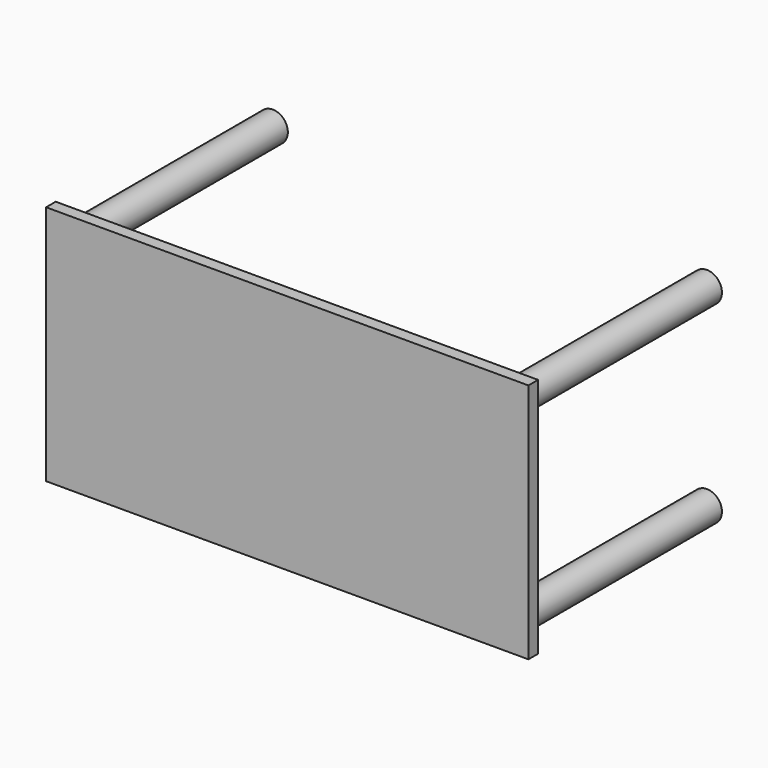
from build123d import *

# Parameters (mm, degrees)
F0_W     = 400
F0_H     = 200
F1_DEPTH = 10
F2_R     = 12.5
F3_DEPTH = 200
F4_R     = 12.5
F5_DEPTH = 200


with BuildPart() as f1:
    # F0 (on Front) → F1 (new body)
    with BuildSketch(Plane.XZ):
        with Locations((-15.897054, -26.061756)):
            Rectangle(F0_W, F0_H)
    extrude(amount=F1_DEPTH)

    # F2 (on Front) → F3 (join)
    with BuildSketch(Plane.XZ):
        with Locations((-195.897054, 53.938244)):
            Circle(F2_R)
    extrude(amount=-F3_DEPTH)

    # F4 (on face) → F5 (join)
    with BuildSketch(Plane(origin=(0, 0, 0), x_dir=(-1, 0, 0), z_dir=(0, 1, 0))):
        with Locations((-164.102946, 53.938244)):
            Circle(F4_R)
        with Locations((-164.102946, -106.061756)):
            Circle(F4_R)
        with Locations((195.897054, -106.061756)):
            Circle(F4_R)
    extrude(amount=F5_DEPTH)


solid = f1.part
